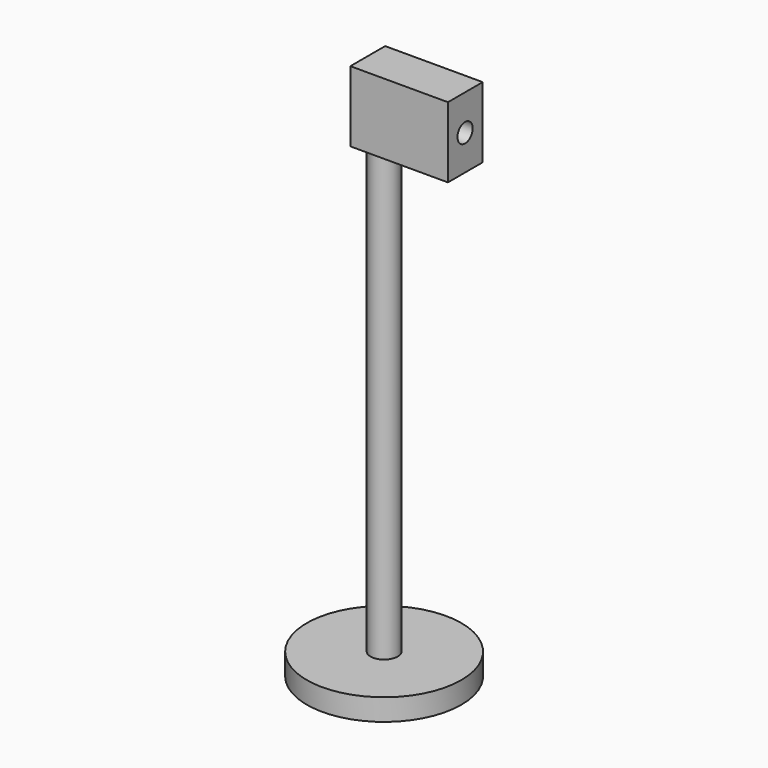
from build123d import *

# Parameters (mm, degrees)
F0_R     = 28.448
F1_DEPTH = 8.001
F2_R     = 4.99999
F3_DEPTH = 165.00094
F5_DEPTH = 7.99973
F6_R     = 3.50012
F7_DEPTH = 43.9928


with BuildPart() as f1:
    # F0 (on Top) → F1 (new body)
    with BuildSketch(Plane.XY):
        Circle(F0_R)
    extrude(amount=F1_DEPTH)

    # F2 (on face) → F3 (join)
    with BuildSketch(Plane.XY.offset(8.001)):
        Circle(F2_R)
    extrude(amount=F3_DEPTH)

    # F4 (on Front) → F5 (join, symmetric)
    with BuildSketch(Plane.XZ):
        Polygon((-6.00583, 173.00194), (-4.99999, 173.00194), (4.99999, 173.00194), (29.90215, 173.00194), (29.90215, 199.00138), (-6.00583, 199.00138), align=None)
    extrude(amount=F5_DEPTH, both=True)

    # F6 (on face) → F7 (cut)
    with BuildSketch(Plane(origin=(-6.00583, 0, 0), x_dir=(0, -1, 0), z_dir=(-1, 0, 0))):
        with Locations((0.09779, 185.9026)):
            Circle(F6_R)
    extrude(amount=-F7_DEPTH, mode=Mode.SUBTRACT)


solid = f1.part
